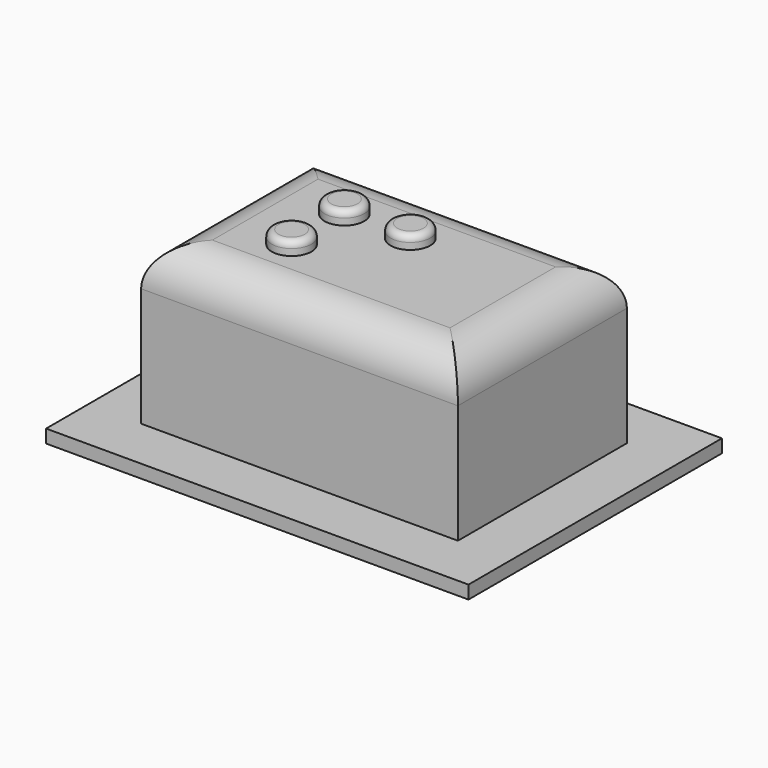
from build123d import *

# Parameters (mm, degrees)
SKETCH_W     = 16
SKETCH_H     = 12
PAD_DEPTH    = 0.5
SKETCH001_W  = 12
SKETCH001_H  = 8
PAD001_DEPTH = 6
FILLET_R     = 1.5
SKETCH002_R  = 0.75
PAD002_DEPTH = 0.5
FILLET001_R  = 0.25
SKETCH004_R  = 0.75
PAD004_DEPTH = 0.5
FILLET003_R  = 0.25
SKETCH005_R  = 0.75
PAD005_DEPTH = 0.5
FILLET004_R  = 0.25


with BuildPart() as pad:
    # Sketch → Pad (new body)
    with BuildSketch(Plane.XY):
        with Locations((8, 6)):
            Rectangle(SKETCH_W, SKETCH_H)
    extrude(amount=PAD_DEPTH)


with BuildPart() as fillet_body:
    # Sketch001 → Pad001 (new body)
    with BuildSketch(Plane.XY.offset(0.5)):
        with Locations((8, 6)):
            Rectangle(SKETCH001_W, SKETCH001_H)
    extrude(amount=PAD001_DEPTH)

    # Fillet
    fillet_edges = [fillet_body.edges().sort_by_distance(p)[0] for p in [
        (8, 2, 6.5),
        (14, 6, 6.5),
        (8, 10, 6.5),
        (2, 6, 6.5),
    ]]
    fillet(fillet_edges, radius=FILLET_R)


with BuildPart() as fillet001:
    # Sketch002 → Pad002 (new body)
    with BuildSketch(Plane.XY.offset(6.5)):
        with Locations((5.5, 4.75)):
            Circle(SKETCH002_R)
    extrude(amount=PAD002_DEPTH)

    # Fillet001
    fillet001_edges = [fillet001.edges().sort_by_distance(p)[0] for p in [
        (4.75, 4.75, 7),
    ]]
    fillet(fillet001_edges, radius=FILLET001_R)


with BuildPart() as fillet003:
    # Sketch004 → Pad004 (new body)
    with BuildSketch(Plane.XY.offset(6.5)):
        with Locations((5.5, 7.25)):
            Circle(SKETCH004_R)
    extrude(amount=PAD004_DEPTH)

    # Fillet003
    fillet003_edges = [fillet003.edges().sort_by_distance(p)[0] for p in [
        (4.75, 7.25, 7),
    ]]
    fillet(fillet003_edges, radius=FILLET003_R)


with BuildPart() as fillet004:
    # Sketch005 → Pad005 (new body)
    with BuildSketch(Plane.XY.offset(6.5)):
        with Locations((8, 7.25)):
            Circle(SKETCH005_R)
    extrude(amount=PAD005_DEPTH)

    # Fillet004
    fillet004_edges = [fillet004.edges().sort_by_distance(p)[0] for p in [
        (7.25, 7.25, 7),
    ]]
    fillet(fillet004_edges, radius=FILLET004_R)


solid = Compound([pad.part, fillet_body.part, fillet001.part, fillet003.part, fillet004.part])
